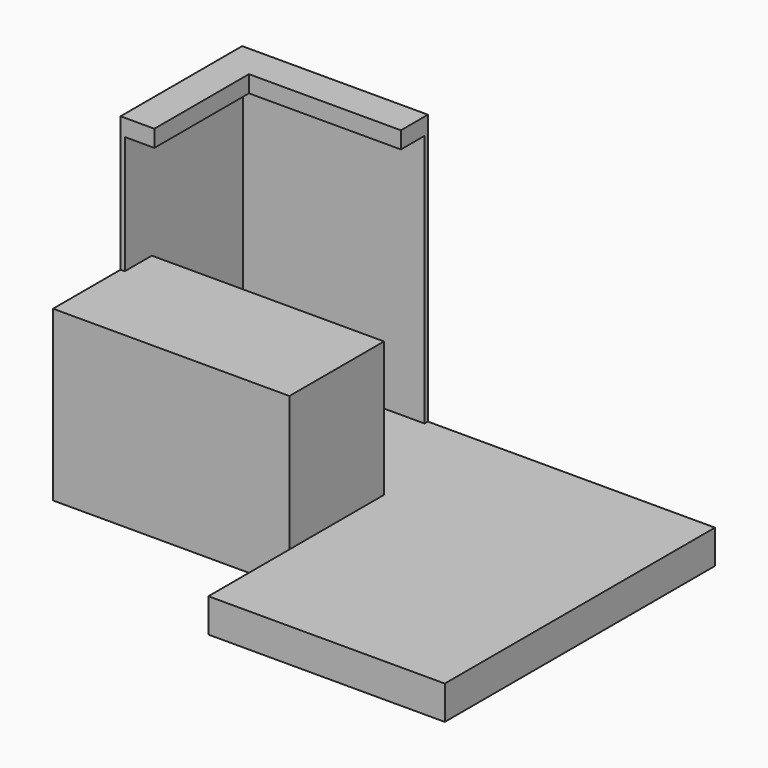
from build123d import *

# Parameters (mm, degrees)
F1_DEPTH = 25.4
F3_DEPTH = 203.2
F4_W     = 177.8
F4_H     = 88.9
F5_DEPTH = 101.6
F7_DEPTH = 22.225
F8_W     = 136.525
F8_H     = 190.5
F9_DEPTH = 22.225


with BuildPart() as f1:
    # F0 (on Top) → F1 (new body)
    with BuildSketch(Plane.XY):
        Polygon((30.969309, -60.027699), (30.969309, -136.227699), (208.769309, -136.227699), (208.769309, 117.772301), (-146.830691, 117.772301), (-146.830691, -60.027699), align=None)
    extrude(amount=F1_DEPTH)

    # F2 (on face) → F3 (join)
    with BuildSketch(Plane.XY.offset(25.4)):
        Polygon((-146.830691, 117.772301), (-146.830691, 3.472301), (-121.430691, 3.472301), (-121.430691, 92.372301), (-7.130691, 92.372301), (-7.130691, 117.772301), (-121.430691, 117.772301), align=None)
    extrude(amount=F3_DEPTH)

    # F4 (on face) → F5 (join)
    with BuildSketch(Plane.XY.offset(25.4)):
        with Locations((-57.930691, -15.577699)):
            Rectangle(F4_W, F4_H)
    extrude(amount=F5_DEPTH)

    # F6 (on face) → F7 (cut)
    with BuildSketch(Plane.YZ.offset(-121.430691)):
        Polygon((92.372301, 215.9), (3.472301, 215.9), (3.472301, 127), (28.872301, 127), (28.872301, 25.4), (92.372301, 25.4), (92.372301, 127), align=None)
    extrude(amount=-F7_DEPTH, mode=Mode.SUBTRACT)

    # F8 (on face) → F9 (cut)
    with BuildSketch(Plane.XZ.offset(-92.372301)):
        with Locations((-75.393191, 120.65)):
            Rectangle(F8_W, F8_H)
    extrude(amount=-F9_DEPTH, mode=Mode.SUBTRACT)


solid = f1.part
